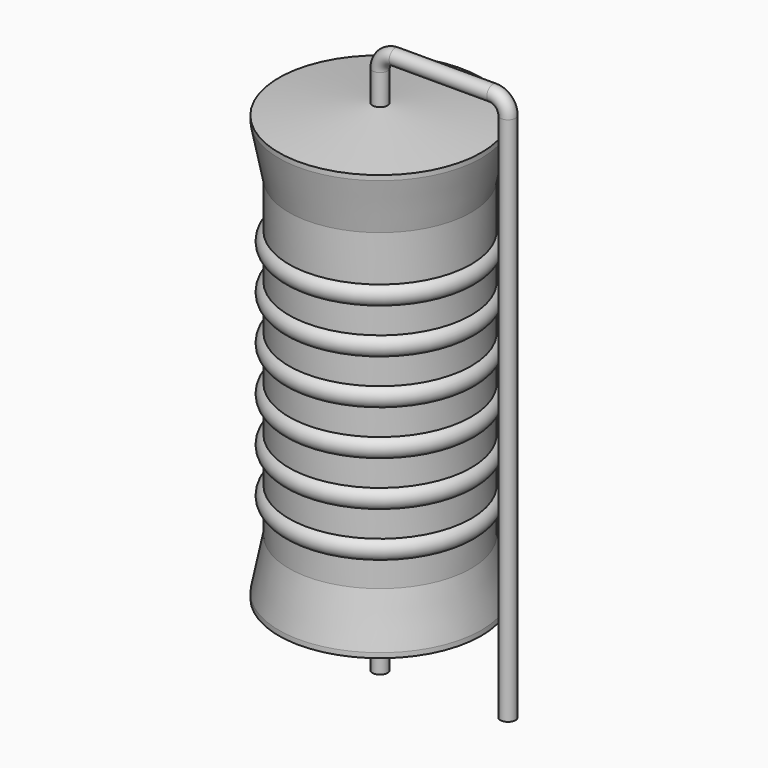
from build123d import *

# Parameters (mm, degrees)
SKETCH_R = 0.45


with BuildPart() as revolution:
    # Sketch002 → Revolution (revolve)
    with BuildSketch(Plane.XZ):
        Polygon((0, 0.1), (0, 26.77), (0.3375, 26.77), (6.035, 26.10325), (6.035, 25.81075), (5.4315, 22.7695), (5.4315, 4.1005), (6.035, 1.05925), (6.035, 0.76675), (0.3375, 0.1), align=None)
    revolve(axis=Axis((0, 0, 0), (0, 0, 1)))


with BuildPart() as revolution001:
    # Sketch003 → Revolution001 (revolve)
    with BuildSketch(Plane.XZ):
        with BuildLine():
            Line((4.828, 21.5625), (4.828, 4.1005))
            Line((4.828, 4.1005), (5.1901, 4.1005))
            Line((5.1901, 4.1005), (5.1901, 5.5605))
            ThreePointArc((5.1901, 5.5605), (5.7936, 6.164), (5.1901, 6.7675))
            Line((5.1901, 6.7675), (5.1901, 8.2275))
            ThreePointArc((5.1901, 8.2275), (5.7936, 8.831), (5.1901, 9.4345))
            Line((5.1901, 9.4345), (5.1901, 10.8945))
            ThreePointArc((5.1901, 10.8945), (5.7936, 11.498), (5.1901, 12.1015))
            Line((5.1901, 12.1015), (5.1901, 13.5615))
            ThreePointArc((5.1901, 13.5615), (5.7936, 14.165), (5.1901, 14.7685))
            Line((5.1901, 14.7685), (5.1901, 16.2285))
            ThreePointArc((5.1901, 16.2285), (5.7936, 16.832), (5.1901, 17.4355))
            Line((5.1901, 17.4355), (5.1901, 18.8955))
            ThreePointArc((5.1901, 18.8955), (5.7936, 19.499), (5.1901, 20.1025))
            Line((5.1901, 21.5625), (5.1901, 20.1025))
            Line((4.828, 21.5625), (5.1901, 21.5625))
        make_face()
    revolve(axis=Axis((0, 0, 0), (0, 0, 1)))


with BuildPart() as obj1:
    # Sweep: sweep along a path in Sketch001
    with BuildLine(Plane.XZ) as sweep_path:
        Line((0, -3), (0, 28.57))
        ThreePointArc((0, 28.57), (0.2636, 29.206392), (0.899988, 29.47))
        Line((0.899988, 29.47), (6.72, 29.47))
        ThreePointArc((6.72, 29.47), (7.356396, 29.206396), (7.62, 28.57))
        Line((7.62, 28.57), (7.62, -3))
    # Sketch → Sweep (sweep)
    with BuildSketch(Plane.XY.offset(-2)):
        Circle(SKETCH_R)
    sweep(path=sweep_path.line)

    # obj1: union Revolution, Revolution001
    add(revolution.part)
    add(revolution001.part)


solid = obj1.part
